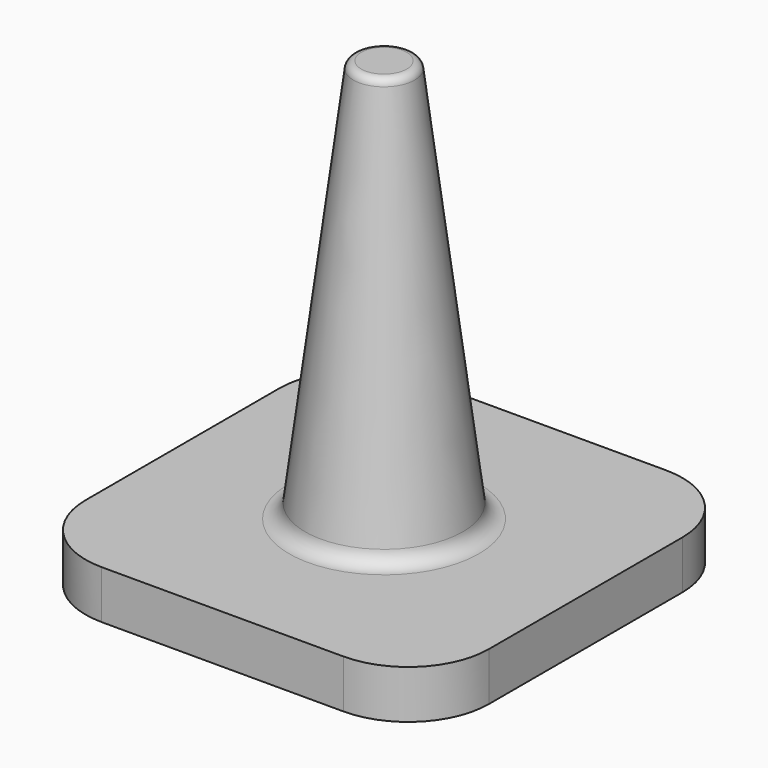
from build123d import *

# Parameters (mm, degrees)
PAD_DEPTH    = 6
SKETCH001_R  = 10
PAD001_DEPTH = 50
PAD001_TAPER = 7.180756
FILLET_R     = 2
FILLET001_R  = 1


with BuildPart() as part:
    # Sketch → Pad (new body)
    with BuildSketch(Plane.XY):
        with BuildLine():
            Line((15, -25), (-15, -25))
            ThreePointArc((-25, -15), (-22.071068, -22.071068), (-15, -25))
            Line((-25, -15), (-25, 15))
            ThreePointArc((-15, 25), (-22.071068, 22.071068), (-25, 15))
            Line((-15, 25), (15, 25))
            ThreePointArc((25, 15), (22.071068, 22.071068), (15, 25))
            Line((25, 15), (25, -15))
            ThreePointArc((15, -25), (22.071068, -22.071068), (25, -15))
        make_face()
    extrude(amount=PAD_DEPTH)

    # Sketch001 (on Face10 of Pad) → Pad001 (join)
    with BuildSketch(Plane.XY.offset(6)):
        Circle(SKETCH001_R)
    extrude(amount=PAD001_DEPTH, taper=PAD001_TAPER)

    # Fillet
    fillet_edges = [part.edges().sort_by_distance(p)[0] for p in [
        (-10, 0, 6),
    ]]
    fillet(fillet_edges, radius=FILLET_R)

    # Fillet001
    fillet001_edges = [part.edges().sort_by_distance(p)[0] for p in [
        (-3.700592, 0, 56),
    ]]
    fillet(fillet001_edges, radius=FILLET001_R)


solid = part.part
